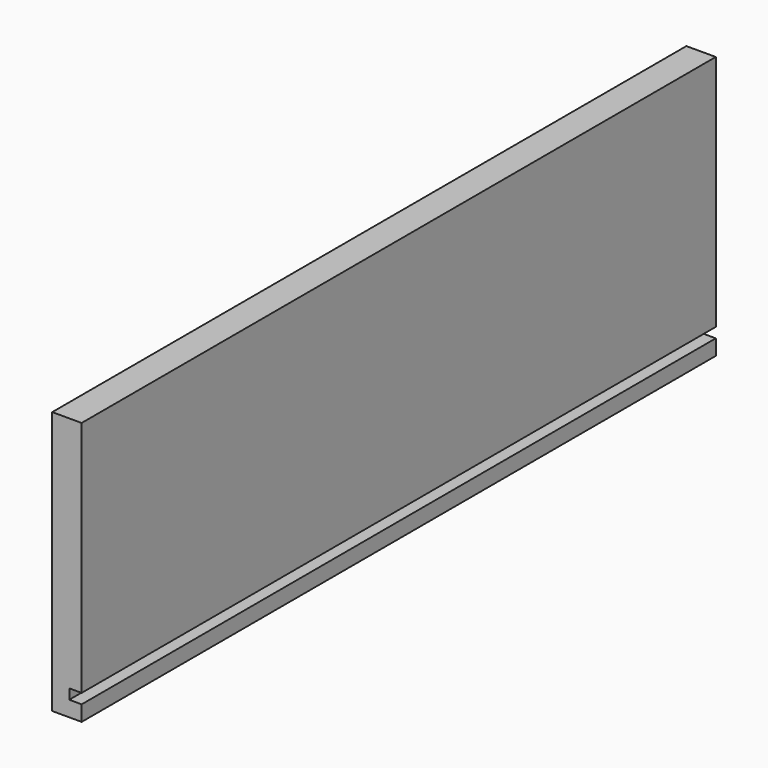
from build123d import *

# Parameters (mm, degrees)
PAD_DEPTH = 512


with BuildPart() as part:
    # Sketch → Pad (new body)
    with BuildSketch(Plane.XZ):
        Polygon((-9.5, -85), (9.5, -85), (9.5, -75), (1.5, -75), (1.5, -68.5), (9.5, -68.5), (9.5, 85), (-9.5, 85), align=None)
    extrude(amount=PAD_DEPTH)


solid = part.part
